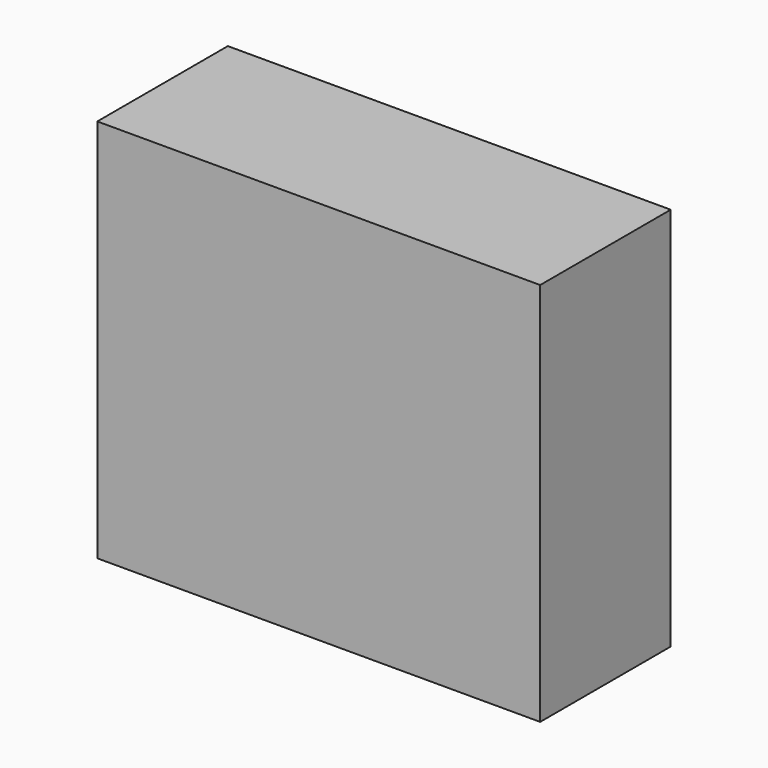
from build123d import *

# Parameters (mm, degrees)
BOX022_W               = 57.15
BOX022_H               = 19.05
BOX022_DEPTH           = 50.8
BOX023_W               = 60.325
BOX023_H               = 22.225
BOX023_DEPTH           = 52.3875
CUT025_PLACEMENT_ANGLE = 180


with BuildPart() as cube022:
    # Box022 → Box022 (new body)
    with BuildSketch(Plane(origin=(-28.575, -9.525, 0), x_dir=(1, 0, 0), z_dir=(0, 0, 1))):
        with Locations((28.575, 9.525)):
            Rectangle(BOX022_W, BOX022_H)
    extrude(amount=BOX022_DEPTH)


with BuildPart() as steel_cap001:
    # Box023 → Box023 (new body)
    with BuildSketch(Plane(origin=(-30.1625, -11.1125, -1.5875), x_dir=(1, 0, 0), z_dir=(0, 0, 1))):
        with Locations((30.1625, 11.1125)):
            Rectangle(BOX023_W, BOX023_H)
    extrude(amount=BOX023_DEPTH)

    # Cut025: cut Cube022
    add(cube022.part, mode=Mode.SUBTRACT)


with BuildPart() as steel_cap001_1:
    # Cut025 placement: moved
    add(steel_cap001.part.moved(Location((0, 0, 914.4))).rotate(Axis((0, 0, 914.4), (1, 0, 0)), CUT025_PLACEMENT_ANGLE))


solid = steel_cap001_1.part
